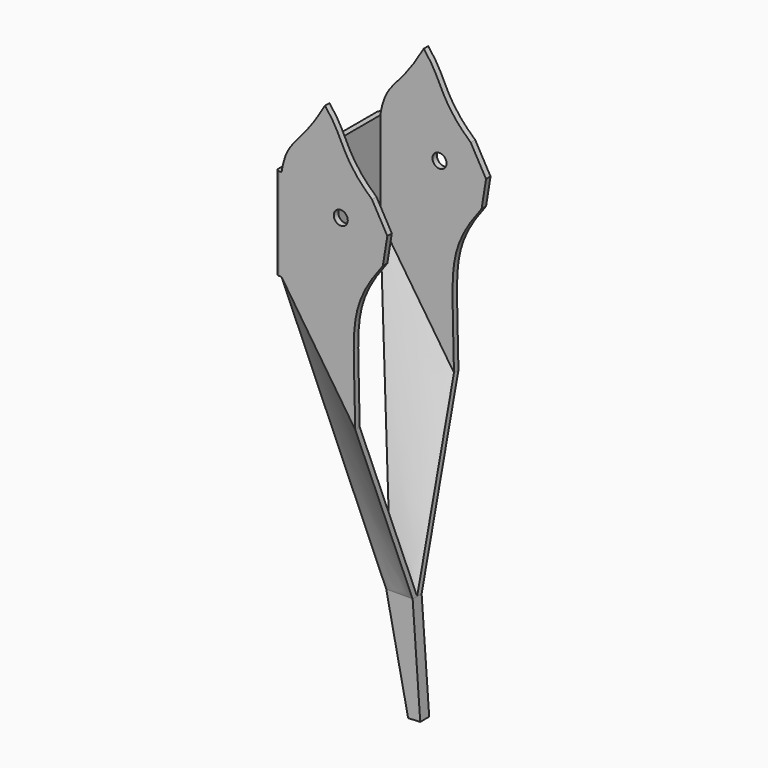
from build123d import *

# Parameters (mm, degrees)
F1_DEPTH                 = 2
F0_R                     = 2.5
F0_W                     = 1.9671103259
F0_H                     = 32.8726123017
F2_DEPTH                 = 23
F3_DEPTH                 = 21
F3_FACE_W                = 2
F3_FACE_H                = 47.3760884154
FLPUHT3DEIL0ECL_2_FACE_W = 9.4088794868
FLPUHT3DEIL0ECL_2_FACE_H = 2
F5_DEPTH                 = 2
F5_FACE_W                = 9.4088794868
F5_FACE_H                = 2
F7_R                     = 1
F8_R                     = 1


with BuildPart() as f1:
    # F0 (on Front) → F1 (new body)
    with BuildSketch(Plane.XZ):
        Polygon((-27.4859799968, -94.5354314736), (-36.8948594836, -94.5354314736), (-29.0944709842, -132.4704811186), (-24.7819819802, -132.2534833467), align=None)
    extrude(amount=-F1_DEPTH)



with BuildPart() as f2:
    # F0 (on Front) → F2 (new body, symmetric)
    with BuildSketch(Plane.XZ):
        with BuildLine():
            Line((-57.4354853918, 38.2308801777), (-57.4354853918, 5.358267876))
            Line((-57.4354853918, 5.358267876), (-31.1536770314, -34.0594984591))
            add(Edge.make_bspline(
                [(-21.304015945, 20.5783754124), (-34.3524827141, 3.69984575), (-31.5767975227, -1.8766191306), (-31.1536770314, -34.0594984591)],
                knots=[0, 0, 0, 0, 56.0586211891, 56.0586211891, 56.0586211891, 56.0586211891], degree=3))
            Line((-21.304015945, 20.5783754124), (-19.717078656, 30.4542761296))
            Line((-19.717078656, 30.4542761296), (-25.1840222627, 40.1536934078))
            add(Edge.make_bspline(
                [(-41.9375598431, 64.1377046704), (-34.8834395409, 55.6727573276), (-36.6469696164, 50.3821708262), (-25.1840222627, 40.1536934078)],
                knots=[0, 0, 0, 0, 29.2560048145, 29.2560048145, 29.2560048145, 29.2560048145], degree=3))
            add(Edge.make_bspline(
                [(-41.9375598431, 64.1377046704), (-51.2842722237, 47.7368719876), (-55.3985677235, 50.4242394975), (-57.4354853918, 38.2308801777)],
                knots=[0, 0, 0, 0, 30.1885616022, 30.1885616022, 30.1885616022, 30.1885616022], degree=3))
        make_face()
        with Locations((-36.313764751, 30.7701863348)):
            Circle(F0_R, mode=Mode.SUBTRACT)
        with Locations((-58.4190405548, 21.7945740269)):
            Rectangle(F0_W, F0_H)
    extrude(amount=F2_DEPTH, both=True)

    # F0 (on Front) → F3 (cut, symmetric)
    with BuildSketch(Plane.XZ):
        with BuildLine():
            Line((-57.4354853918, 38.2308801777), (-57.4354853918, 5.358267876))
            Line((-57.4354853918, 5.358267876), (-31.1536770314, -34.0594984591))
            add(Edge.make_bspline(
                [(-21.304015945, 20.5783754124), (-34.3524827141, 3.69984575), (-31.5767975227, -1.8766191306), (-31.1536770314, -34.0594984591)],
                knots=[0, 0, 0, 0, 56.0586211891, 56.0586211891, 56.0586211891, 56.0586211891], degree=3))
            Line((-21.304015945, 20.5783754124), (-19.717078656, 30.4542761296))
            Line((-19.717078656, 30.4542761296), (-25.1840222627, 40.1536934078))
            add(Edge.make_bspline(
                [(-41.9375598431, 64.1377046704), (-34.8834395409, 55.6727573276), (-36.6469696164, 50.3821708262), (-25.1840222627, 40.1536934078)],
                knots=[0, 0, 0, 0, 29.2560048145, 29.2560048145, 29.2560048145, 29.2560048145], degree=3))
            add(Edge.make_bspline(
                [(-41.9375598431, 64.1377046704), (-51.2842722237, 47.7368719876), (-55.3985677235, 50.4242394975), (-57.4354853918, 38.2308801777)],
                knots=[0, 0, 0, 0, 30.1885616022, 30.1885616022, 30.1885616022, 30.1885616022], degree=3))
        make_face()
        with Locations((-36.313764751, 30.7701863348)):
            Circle(F0_R, mode=Mode.SUBTRACT)
    extrude(amount=F3_DEPTH, both=True, mode=Mode.SUBTRACT)


with BuildPart() as f1_1:
    add(f1.part)

    add(f2.part)  # F4 merges F2
    # F3_face (on face) → F4 section 0
    with BuildSketch(Plane(origin=(-44.2945812116, 22, -14.3506152915), x_dir=(0, -1, 0), z_dir=(-0.8320181689, 0, -0.5547483813))):
        Rectangle(F3_FACE_W, F3_FACE_H)
    # FlpuHt3dEil0ecl_2_face (on face) → F4 section 1
    with BuildSketch(Plane(origin=(-32.1904197402, 1, -94.5354314736), x_dir=(1, 0, 0), z_dir=(0, 0, 1))):
        Rectangle(FLPUHT3DEIL0ECL_2_FACE_W, FLPUHT3DEIL0ECL_2_FACE_H)
    loft()

    # F0 (on Front) → F5 (join)
    with BuildSketch(Plane.XZ):
        Polygon((-27.4859799968, -94.5354314736), (-36.8948594836, -94.5354314736), (-29.0944709842, -132.4704811186), (-24.7819819802, -132.2534833467), align=None)
    extrude(amount=F5_DEPTH)

    # F3_face (on face) → F6 section 0
    with BuildSketch(Plane(origin=(-44.2945812116, 22, -14.3506152915), x_dir=(0, -1, 0), z_dir=(-0.8320181689, 0, -0.5547483813))):
        with Locations((44, 0)):
            Rectangle(F3_FACE_W, F3_FACE_H)
    # F5_face (on face) → F6 section 1
    with BuildSketch(Plane(origin=(-32.1904197402, -1, -94.5354314736), x_dir=(1, 0, 0), z_dir=(0, 0, 1))):
        Rectangle(F5_FACE_W, F5_FACE_H)
    loft()

    # F7
    f7_edges = [f1_1.edges().sort_by_distance(p)[0] for p in [
        (-59.402596, -23, 21.794574),
    ]]
    fillet(f7_edges, radius=F7_R)

    # F8
    f8_edges = [f1_1.edges().sort_by_distance(p)[0] for p in [
        (-59.402596, 23, 21.794574),
    ]]
    fillet(f8_edges, radius=F8_R)


solid = f1_1.part
